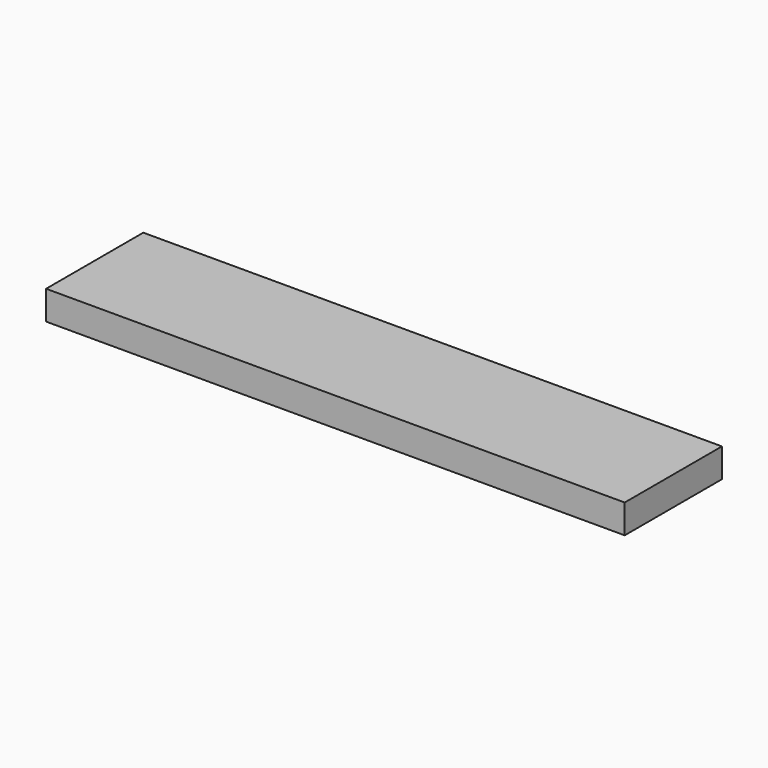
from build123d import *

# Parameters (mm, degrees)
SKETCH_W  = 100
SKETCH_H  = 21
PAD_DEPTH = 5


with BuildPart() as part:
    # Sketch → Pad (new body)
    with BuildSketch(Plane.XY):
        with Locations((50, 10.5)):
            Rectangle(SKETCH_W, SKETCH_H)
    extrude(amount=PAD_DEPTH)


solid = part.part
